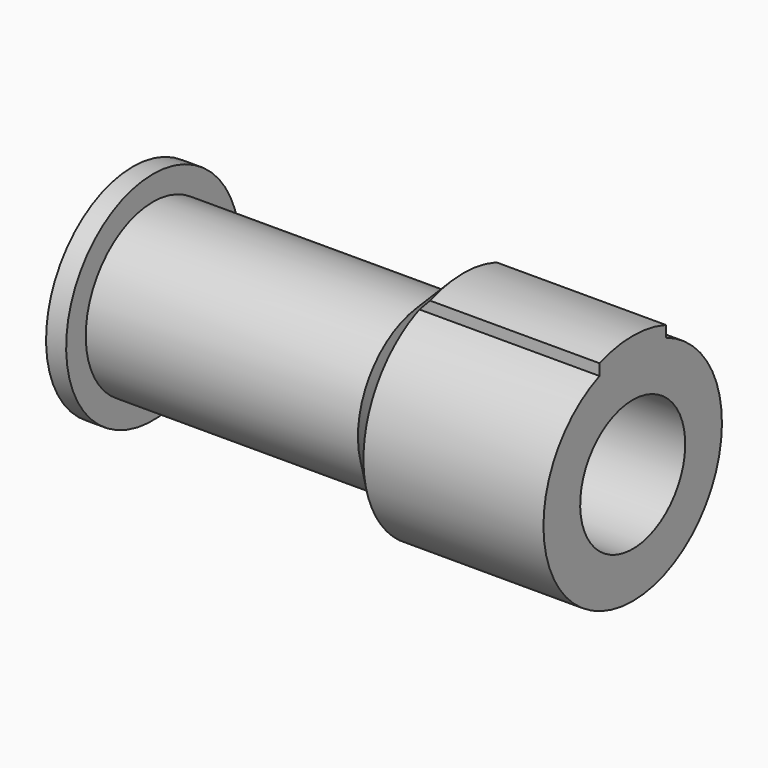
from build123d import *

# Parameters (mm, degrees)
F2_R     = 205.006654
F3_DEPTH = 350


with BuildPart() as f1:
    # F0 (on Front) → F1 (revolve)
    with BuildSketch(Plane.XZ):
        Polygon((30.885566, 166.75), (0, 166.75), (0, 100.9), (768.35, 100.9), (768.35, 187.6), (507.8, 187.6), (449.3, 129.1), (30.885566, 129.1), align=None)
    revolve(axis=Axis((384.175, 0, 0), (1, 0, 0)))

    # F2 (on face) → F3 (cut)
    with BuildSketch(Plane.YZ.offset(768.35)):
        Circle(F2_R)
        with BuildLine():
            ThreePointArc((187.6, 0), (-107.782791, -153.546833), (-63.75, 176.4361))
            Line((-63.75, 176.4361), (-63.75, 178.985858))
            ThreePointArc((-63.75, 178.985858), (0, 190), (63.75, 178.985858))
            Line((63.75, 178.985858), (63.75, 176.4361))
            ThreePointArc((63.75, 176.4361), (153.546833, 107.782791), (187.6, 0))
        make_face(mode=Mode.SUBTRACT)
        with BuildLine():
            ThreePointArc((63.75, 159.157281), (0, -171.45), (-63.75, 159.157281))
            Line((-63.75, 159.157281), (-63.75, 176.4361))
            ThreePointArc((-63.75, 176.4361), (-107.782791, -153.546833), (187.6, 0))
            ThreePointArc((187.6, 0), (153.546833, 107.782791), (63.75, 176.4361))
            Line((63.75, 176.4361), (63.75, 159.157281))
        make_face()
    extrude(amount=-F3_DEPTH, mode=Mode.SUBTRACT)


solid = f1.part
